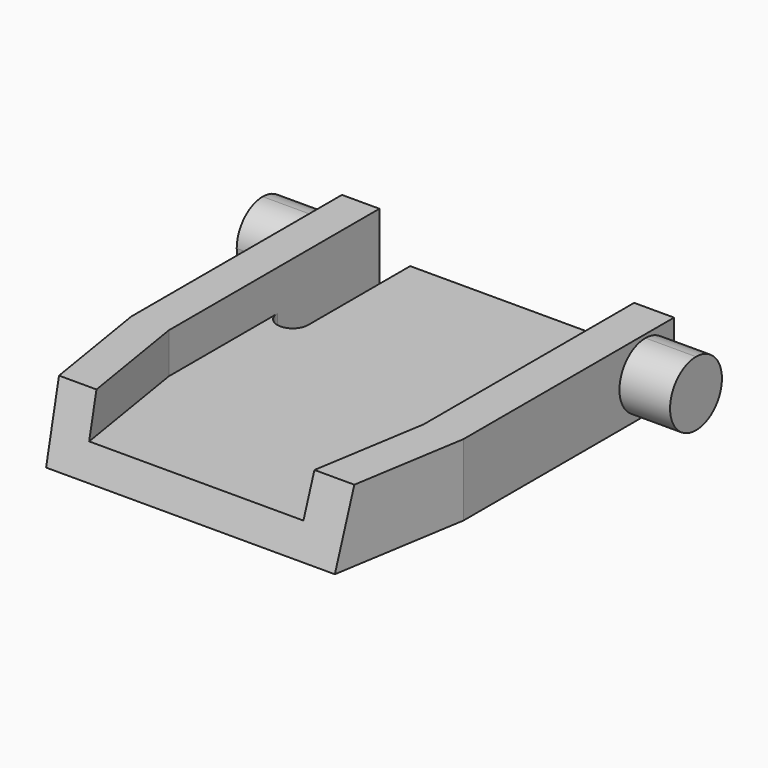
from build123d import *

# Parameters (mm, degrees)
F1_DEPTH = 4.4958
F3_DEPTH = 3.175
F5_DEPTH = 3.175
F7_DEPTH = 2.54
F9_DEPTH = 24.004


with BuildPart() as f1:
    # F0 (on Top) → F1 (new body)
    with BuildSketch(Plane.XY):
        with BuildLine():
            Line((-10.254373, 5.965228), (-10.254373, -0.308572))
            Line((-10.254373, -0.308572), (-10.254373, -9.70656))
            Line((-10.254373, -9.70656), (-8.895473, -18.088572))
            Line((-8.895473, -18.088572), (9.214727, -18.088572))
            Line((9.214727, -18.088572), (10.573627, -9.70656))
            Line((10.573627, -9.70656), (10.573627, -0.308572))
            Line((10.573627, -0.308572), (10.573627, 5.965228))
            Line((10.573627, 5.965228), (10.573627, 6.803428))
            Line((10.573627, 6.803428), (8.071727, 6.803428))
            Line((8.071727, 6.803428), (8.071727, -1.197572))
            ThreePointArc((8.071727, -1.197572), (7.789027, -1.880072), (7.106527, -2.162772))
            ThreePointArc((7.106527, -2.162772), (6.424028, -1.880072), (6.141327, -1.197572))
            Line((6.141327, -1.197572), (6.141327, 6.803428))
            Line((6.141327, 6.803428), (-5.974473, 6.803428))
            Line((-5.974473, 6.803428), (-5.974473, -1.197572))
            ThreePointArc((-5.974473, -1.197572), (-6.257173, -1.880072), (-6.939673, -2.162772))
            ThreePointArc((-6.939673, -2.162772), (-7.622172, -1.880072), (-7.904873, -1.197572))
            Line((-7.904873, -1.197572), (-7.904873, 6.803428))
            Line((-7.904873, 6.803428), (-10.254373, 6.803428))
            Line((-10.254373, 6.803428), (-10.254373, 5.965228))
        make_face()
    extrude(amount=F1_DEPTH)

    # F2 (on face) → F3 (join)
    with BuildSketch(Plane.YZ.offset(10.573627)):
        with BuildLine():
            Line((4.555528, 2.2479), (4.555528, 4.2799))
            ThreePointArc((4.555528, 4.2799), (2.523528, 2.2479), (4.555528, 0.2159))
            Line((4.555528, 0.2159), (4.555528, 2.2479))
        make_face()
        with BuildLine():
            ThreePointArc((4.555528, 0.2159), (5.992369, 0.811059), (6.587528, 2.2479))
            ThreePointArc((6.587528, 2.2479), (5.992369, 3.684741), (4.555528, 4.2799))
            Line((4.555528, 4.2799), (4.555528, 2.2479))
            Line((4.555528, 2.2479), (4.555528, 0.2159))
        make_face()
    extrude(amount=F3_DEPTH)

    # F4 (on face) → F5 (join)
    with BuildSketch(Plane(origin=(-10.254373, 0, 0), x_dir=(0, -1, 0), z_dir=(-1, 0, 0))):
        with BuildLine():
            Line((-4.555528, 2.2479), (-4.555528, 4.2799))
            ThreePointArc((-4.555528, 4.2799), (-5.992369, 3.684741), (-6.587528, 2.2479))
            ThreePointArc((-6.587528, 2.2479), (-5.992369, 0.811059), (-4.555528, 0.2159))
            Line((-4.555528, 0.2159), (-4.555528, 2.2479))
        make_face()
        with BuildLine():
            ThreePointArc((-4.555528, 0.2159), (-3.118687, 0.811059), (-2.523528, 2.2479))
            ThreePointArc((-2.523528, 2.2479), (-3.118687, 3.684741), (-4.555528, 4.2799))
            Line((-4.555528, 4.2799), (-4.555528, 2.2479))
            Line((-4.555528, 2.2479), (-4.555528, 0.2159))
        make_face()
    extrude(amount=F5_DEPTH)

    # F6 (on face) → F7 (cut)
    with BuildSketch(Plane.XY.offset(4.4958)):
        with BuildLine():
            ThreePointArc((-5.974473, -1.197572), (-6.939673, -2.162772), (-7.904873, -1.197572))
            Line((-7.904873, -1.197572), (-7.904873, -9.70656))
            Line((-7.904873, -9.70656), (-6.545973, -18.088572))
            Line((-6.545973, -18.088572), (6.712827, -18.088572))
            Line((6.712827, -18.088572), (8.071727, -9.70656))
            Line((8.071727, -9.70656), (8.071727, -1.197572))
            ThreePointArc((8.071727, -1.197572), (7.106527, -2.162772), (6.141327, -1.197572))
            Line((6.141327, -1.197572), (6.141327, 6.803428))
            Line((6.141327, 6.803428), (-5.974473, 6.803428))
            Line((-5.974473, 6.803428), (-5.974473, -1.197572))
        make_face()
    extrude(amount=-F7_DEPTH, mode=Mode.SUBTRACT)

    # F8 (on face) → F9 (cut, through all)
    with BuildSketch(Plane.YZ.offset(10.573627)):
        Polygon((-18.088572, 4.4958), (-18.088572, 0), (-16.818572, 4.4958), align=None)
    extrude(amount=-F9_DEPTH, mode=Mode.SUBTRACT)


solid = f1.part
